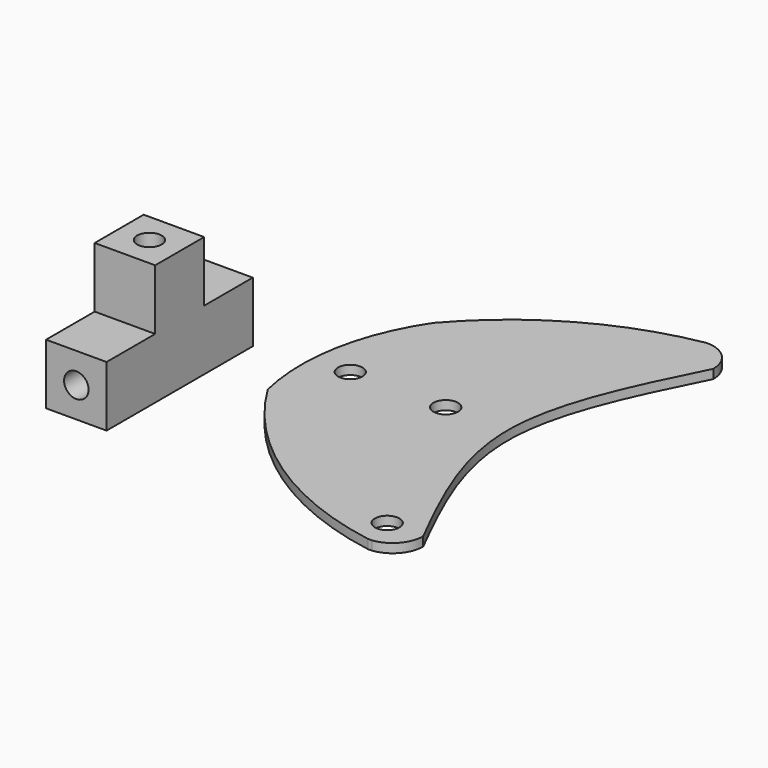
from build123d import *

# Parameters (mm, degrees)
F1_DEPTH = 3
F2_D     = 8.1
F0_W     = 20.01837641
F0_H     = 20.1011039317
F3_DEPTH = 20
F4_DEPTH = 40
F5_D     = 8.1
F7_D     = 8.1


with BuildPart() as f1:
    # F0 (on Top) → F1 (new body)
    with BuildSketch(Plane.XY):
        with BuildLine():
            add(Edge.make_bspline(
                [(46.252983409, 60), (36.237705858, 40), (16.2071507559, 0), (36.237705858, -40), (46.252983409, -60)],
                knots=[0, 0, 0, 0, 0.5, 1, 1, 1, 1], degree=3))
            ThreePointArc((46.252983409, 60), (43.1839686648, 67.3064522221), (35.8180180192, 70.2297836542))
            ThreePointArc((35.8180180192, 70.2297836542), (1.7306915698, 57.9512319162), (-26.2458395153, 34.9290173028))
            ThreePointArc((-26.2458395153, 34.9290173028), (-37.1883000354, 8.0543397848), (-36.4354990583, -20.9528838779))
            ThreePointArc((-36.4354990583, -20.9528838779), (-5.5495112653, -53.3585464112), (35.9834581614, -70.0643435121))
            Line((35.9834581614, -70.0643435121), (37.3069904745, -70.0643435121))
            ThreePointArc((37.3069904745, -70.0643435121), (43.6932008175, -66.7327891678), (46.252983409, -60))
        make_face()
    extrude(amount=F1_DEPTH)

    # F2 (through all)
    with Locations(Plane(origin=(0, 0, 0), x_dir=(1, 0, 0), z_dir=(0, 0, -1))):
        with Locations((34.3290492892, 60), (5.7077207603, 0), (-25.8915442973, 0)):
            Hole(F2_D / 2)


with BuildPart() as f3:
    # F0 (on Top) → F3 (new body)
    with BuildSketch(Plane.XY):
        with Locations((-68.1617669761, -10.0505519658)):
            Rectangle(F0_W, F0_H)
        Polygon((-58.1525787711, -30.2343759686), (-58.1525787711, -20.1011039317), (-78.1709551811, -20.1011039317), (-78.1709551811, -30.2343759686), (-78.1709551811, -40.3676480055), (-58.1525787711, -40.3676480055), align=None)
        with Locations((-68.1617669761, -10.0505519658)):
            Rectangle(F0_W, F0_H)
        with Locations((-68.1617669761, -50.4181999713)):
            Rectangle(F0_W, F0_H)
    extrude(amount=F3_DEPTH)

    # F0 (on Top) → F4 (join)
    with BuildSketch(Plane.XY):
        Polygon((-58.1525787711, -30.2343759686), (-58.1525787711, -20.1011039317), (-78.1709551811, -20.1011039317), (-78.1709551811, -30.2343759686), (-78.1709551811, -40.3676480055), (-58.1525787711, -40.3676480055), align=None)
    extrude(amount=F4_DEPTH)

    # F5 (through all)
    with Locations(Plane(origin=(0, 0, 0), x_dir=(1, 0, 0), z_dir=(0, 0, -1))):
        with Locations((-68.1617669761, 30.2343759686)):
            Hole(F5_D / 2)

    # F7 (through all)
    with Locations(Plane.XZ.offset(60.4687519372)):
        with Locations((-68.1617669761, 10)):
            Hole(F7_D / 2)


solid = Compound([f1.part, f3.part])
